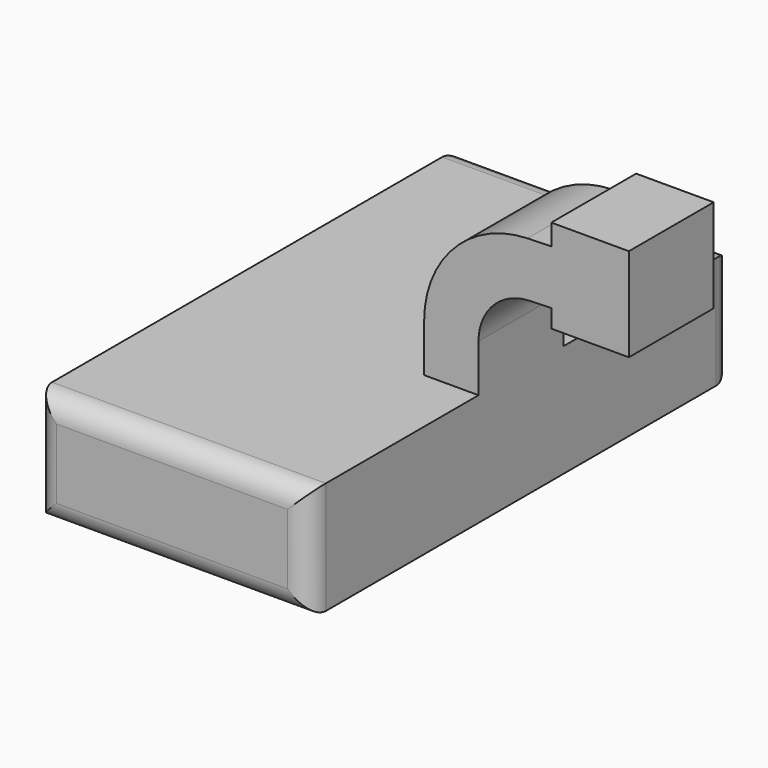
from build123d import *

# Parameters (mm, degrees)
F1_DEPTH = 63.5
F2_DEPTH = 12.7
F3_R     = 5.08


with BuildPart() as f1:
    # F0 (on Front) → F1 (new body, symmetric)
    with BuildSketch(Plane.XZ):
        Polygon((19.77428763, 13.4614007547), (-32.80030936, 13.4614007547), (-32.80030936, -13.4614007547), (32.80030936, -13.4614007547), (32.80030936, 13.4614007547), align=None)
    extrude(amount=F1_DEPTH, both=True)

    # F0 (on Front) → F2 (join, symmetric)
    with BuildSketch(Plane.XZ):
        with BuildLine():
            Line((19.77428763, 24.8372294009), (19.77428763, 13.4614007547))
            Line((19.77428763, 13.4614007547), (32.80030936, 13.4614007547))
            Line((32.80030936, 13.4614007547), (32.80030936, 24.8372294009))
            ThreePointArc((32.80030936, 24.8372294009), (36.3320089212, 33.5525140508), (44.9345260859, 37.3506434262))
            Line((44.9345260859, 37.3506434262), (50.2432473004, 37.5140286498))
            Line((50.2432473004, 37.5140286498), (50.2432473004, 50.5462181007))
            Line((50.2432473004, 50.5462181007), (44.533817111, 50.3705003543))
            ThreePointArc((44.533817111, 50.3705003543), (26.9806216999, 42.6205237084), (19.77428763, 24.8372294009))
        make_face()
        Polygon((59.8447506625, 37.809531787), (50.2432473004, 37.5140286498), (50.2432473004, 33.1795029342), (59.9276782147, 33.1795029342), align=None)
        Polygon((59.5269692399, 55.5519722402), (59.8447506625, 37.809531787), (59.9276782147, 33.1795029342), (68.8237734139, 33.1795029342), (68.8237734139, 55.5519722402), align=None)
        Polygon((50.2432473004, 55.5519722402), (50.2432473004, 50.5462181007), (50.2432473004, 37.5140286498), (59.8447506625, 37.809531787), (59.5269692399, 55.5519722402), align=None)
    extrude(amount=F2_DEPTH, both=True)

    # F3
    f3_edges = [f1.edges().sort_by_distance(p)[0] for p in [
        (0, -63.5, 13.461401),
        (-32.800309, -63.5, 0),
        (0, -63.5, -13.461401),
        (32.800309, -63.5, 0),
        (-32.800309, 63.5, 0),
        (0, 63.5, -13.461401),
        (32.800309, 63.5, 0),
        (0, 63.5, 13.461401),
    ]]
    fillet(f3_edges, radius=F3_R)


solid = f1.part
